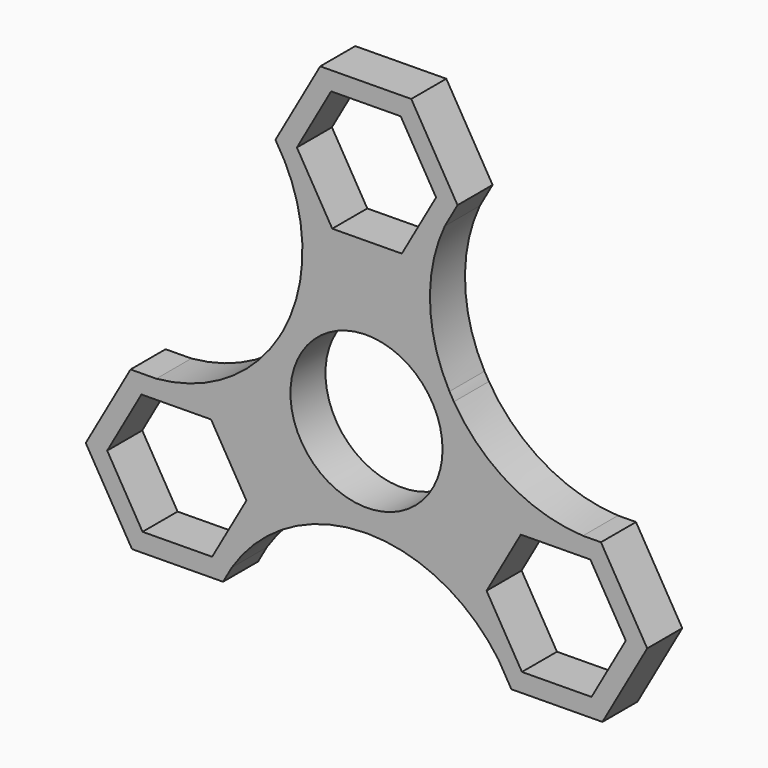
from build123d import *

# Parameters (mm, degrees)
F0_R     = 11.0236
F1_DEPTH = 6.35


with BuildPart() as f1:
    # F0 (on Front) → F1 (new body)
    with BuildSketch(Plane.XZ):
        with BuildLine():
            ThreePointArc((0.3274680596, -14.2837467396), (10.2179096725, -9.9863395783), (14.2875, 0))
            ThreePointArc((14.2875, 0), (13.8765823163, 3.4019287867), (12.6674657785, 6.6081742563))
            ThreePointArc((12.6674657785, 6.6081742563), (12.3386048381, 7.157527699), (12.0249856082, 7.7157227382))
            ThreePointArc((12.0249856082, 7.7157227382), (-0.0794118424, 14.2872793075), (-12.1100113559, 7.581575114))
            ThreePointArc((-12.1100113559, 7.581575114), (-12.3736819292, 7.1101281538), (-12.6482244827, 6.6449284184))
            ThreePointArc((-12.6482244827, 6.6449284184), (-12.2974900055, -7.2735408032), (-0.2689126433, -14.2849691018))
            ThreePointArc((-0.2689126433, -14.2849691018), (0.0292737936, -14.2824480224), (0.3274680596, -14.2837467396))
        make_face()
        Circle(F0_R, mode=Mode.SUBTRACT)
        with BuildLine():
            ThreePointArc((12.6674657785, 6.6081742563), (13.8765823163, 3.4019287867), (14.2875, 0))
            ThreePointArc((14.2875, 0), (10.2179096725, -9.9863395783), (0.3274680596, -14.2837467396))
            ThreePointArc((0.3274680596, -14.2837467396), (10.9182683676, -16.9609416049), (19.1217645686, -24.1744756619))
            Line((19.1217645686, -24.1744756619), (14.2986624039, -15.99905024))
            Line((14.2986624039, -15.99905024), (20.7900538279, -4.5075300019))
            Line((20.7900538279, -4.5075300019), (31.3741279928, -4.4080458119))
            ThreePointArc((31.3741279928, -4.4080458119), (20.6570695125, -1.2156835719), (12.6674657785, 6.6081742563))
        make_face()
        with BuildLine():
            ThreePointArc((12.0249856082, 7.7157227382), (12.3386048381, 7.157527699), (12.6674657785, 6.6081742563))
            ThreePointArc((12.6674657785, 6.6081742563), (12.3586388725, 7.1691492849), (12.0249856082, 7.7157227382))
        make_face()
        with BuildLine():
            ThreePointArc((-0.2689126433, -14.2849691018), (0.0292840868, -14.2874699892), (0.3274680596, -14.2837467396))
            ThreePointArc((0.3274680596, -14.2837467396), (0.0292737936, -14.2824480224), (-0.2689126433, -14.2849691018))
        make_face()
        with BuildLine():
            ThreePointArc((-12.1100113559, 7.581575114), (-0.0794118424, 14.2872793075), (12.0249856082, 7.7157227382))
            ThreePointArc((12.0249856082, 7.7157227382), (9.2100112148, 18.0768557667), (11.3474304636, 28.5986710771))
            Line((11.3474304636, 28.5986710771), (6.7062527423, 20.3825300019))
            Line((6.7062527423, 20.3825300019), (-6.4913914239, 20.258479762))
            Line((-6.4913914239, 20.258479762), (-11.8801477461, 29.3927203242))
            ThreePointArc((-11.8801477461, 29.3927203242), (-9.2812144735, 18.4585467989), (-12.1100113559, 7.581575114))
        make_face()
        with BuildLine():
            ThreePointArc((33.9876979941, -4.383479762), (32.6812582501, -4.4324944701), (31.3741279928, -4.4080458119))
            Line((31.3741279928, -4.4080458119), (20.7900538279, -4.5075300019))
            Line((20.7900538279, -4.5075300019), (14.2986624039, -15.99905024))
            Line((14.2986624039, -15.99905024), (19.1217645686, -24.1744756619))
            ThreePointArc((19.1217645686, -24.1744756619), (20.1269642499, -25.7329626623), (21.0049151462, -27.366520238))
            Line((21.0049151462, -27.366520238), (34.2025593124, -27.2424699981))
            Line((34.2025593124, -27.2424699981), (40.6939507364, -15.75094976))
            Line((40.6939507364, -15.75094976), (33.9876979941, -4.383479762))
        make_face()
        Polygon((22.5339984594, -24.6596288042), (17.4074408075, -15.9698295168), (22.3697489183, -7.1852007126), (32.4586146809, -7.0903711958), (37.5851723328, -15.7801704832), (32.622864222, -24.5647992874), align=None, mode=Mode.SUBTRACT)
        with BuildLine():
            Line((33.9876979941, -4.383479762), (31.3741279928, -4.4080458119))
            ThreePointArc((31.3741279928, -4.4080458119), (32.6812582501, -4.4324944701), (33.9876979941, -4.383479762))
        make_face()
        with BuildLine():
            ThreePointArc((-19.5323350277, -25.0159672189), (-11.251794814, -17.2249549892), (-0.2689126433, -14.2849691018))
            ThreePointArc((-0.2689126433, -14.2849691018), (-12.2974900055, -7.2735408032), (-12.6482244827, 6.6449284184))
            ThreePointArc((-12.6482244827, 6.6449284184), (-20.2295725455, -1.03712802), (-30.4613844896, -4.4723651173))
            Line((-30.4613844896, -4.4723651173), (-21.0049151462, -4.383479762))
            Line((-21.0049151462, -4.383479762), (-14.2986624039, -15.75094976))
            Line((-14.2986624039, -15.75094976), (-19.5323350277, -25.0159672189))
        make_face()
        with BuildLine():
            ThreePointArc((21.0049151462, -27.366520238), (20.1269642499, -25.7329626623), (19.1217645686, -24.1744756619))
            Line((19.1217645686, -24.1744756619), (21.0049151462, -27.366520238))
        make_face()
        with BuildLine():
            ThreePointArc((-12.6482244827, 6.6449284184), (-12.3736819292, 7.1101281538), (-12.1100113559, 7.581575114))
            ThreePointArc((-12.1100113559, 7.581575114), (-12.3879734912, 7.1183403285), (-12.6482244827, 6.6449284184))
        make_face()
        with BuildLine():
            ThreePointArc((13.1976441662, 31.87405024), (12.2062266956, 30.2738185559), (11.3474304636, 28.5986710771))
            Line((11.3474304636, 28.5986710771), (13.1976441662, 31.87405024))
        make_face()
        with BuildLine():
            Line((6.7062527423, 20.3825300019), (11.3474304636, 28.5986710771))
            ThreePointArc((11.3474304636, 28.5986710771), (12.2062266956, 30.2738185559), (13.1976441662, 31.87405024))
            Line((13.1976441662, 31.87405024), (6.4913914239, 43.241520238))
            Line((6.4913914239, 43.241520238), (-6.7062527423, 43.1174699981))
            Line((-6.7062527423, 43.1174699981), (-13.1976441662, 31.62594976))
            ThreePointArc((-13.1976441662, 31.62594976), (-12.5077667223, 30.5276997715), (-11.8801477461, 29.3927203242))
            Line((-11.8801477461, 29.3927203242), (-6.4913914239, 20.258479762))
            Line((-6.4913914239, 20.258479762), (6.7062527423, 20.3825300019))
        make_face()
        Polygon((-4.9623081108, 22.9653711958), (-10.0888657626, 31.6551704832), (-5.1265576519, 40.4397992874), (4.9623081108, 40.5346288042), (10.0888657626, 31.8448295168), (5.1265576519, 23.0602007126), align=None, mode=Mode.SUBTRACT)
        with BuildLine():
            ThreePointArc((-20.7900538279, -27.2424699981), (-20.1917898783, -26.1119356867), (-19.5323350277, -25.0159672189))
            Line((-19.5323350277, -25.0159672189), (-14.2986624039, -15.75094976))
            Line((-14.2986624039, -15.75094976), (-21.0049151462, -4.383479762))
            Line((-21.0049151462, -4.383479762), (-30.4613844896, -4.4723651173))
            ThreePointArc((-30.4613844896, -4.4723651173), (-32.331264033, -4.5652572938), (-34.2025593124, -4.5075300019))
            Line((-34.2025593124, -4.5075300019), (-40.6939507364, -15.99905024))
            Line((-40.6939507364, -15.99905024), (-33.9876979941, -27.366520238))
            Line((-33.9876979941, -27.366520238), (-20.7900538279, -27.2424699981))
        make_face()
        Polygon((-32.622864222, -7.1852007126), (-22.5339984594, -7.0903711958), (-17.4074408075, -15.7801704832), (-22.3697489183, -24.5647992874), (-32.4586146809, -24.6596288042), (-37.5851723328, -15.9698295168), align=None, mode=Mode.SUBTRACT)
        with BuildLine():
            Line((-20.7900538279, -27.2424699981), (-19.5323350277, -25.0159672189))
            ThreePointArc((-19.5323350277, -25.0159672189), (-20.1917898783, -26.1119356867), (-20.7900538279, -27.2424699981))
        make_face()
        with BuildLine():
            Line((-13.1976441662, 31.62594976), (-11.8801477461, 29.3927203242))
            ThreePointArc((-11.8801477461, 29.3927203242), (-12.5077667223, 30.5276997715), (-13.1976441662, 31.62594976))
        make_face()
        with BuildLine():
            ThreePointArc((-34.2025593124, -4.5075300019), (-32.331264033, -4.5652572938), (-30.4613844896, -4.4723651173))
            Line((-30.4613844896, -4.4723651173), (-34.2025593124, -4.5075300019))
        make_face()
    extrude(amount=F1_DEPTH)


solid = f1.part
